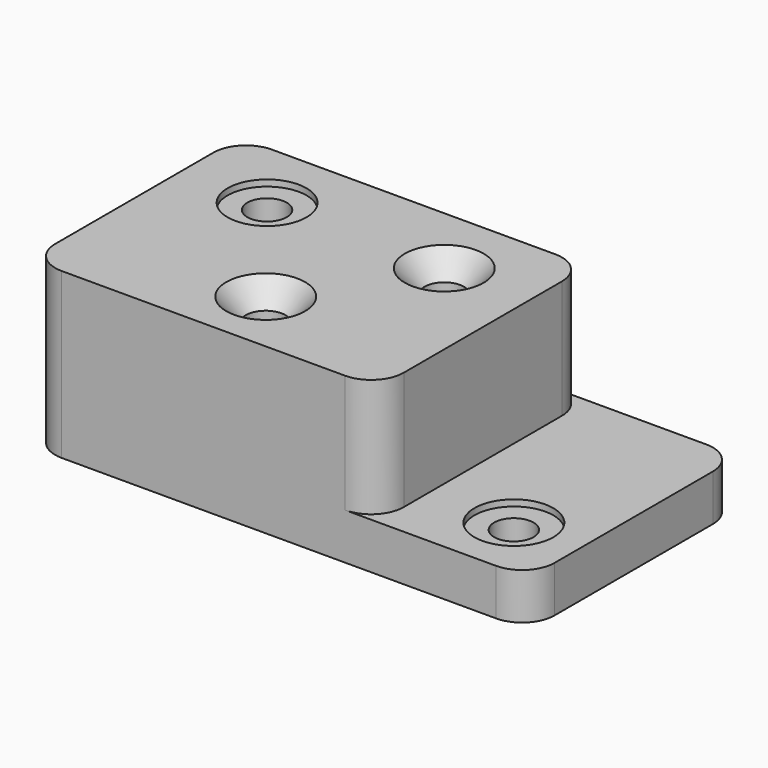
from build123d import *

# Parameters (mm, degrees)
F1_DEPTH       = 127
F2_R           = 15.748
F4_D           = 19.05
F4_CSINK_D     = 38.1
F4_CSINK_ANGLE = 82
F5_D           = 19.05
F5_CBORE_D     = 38.1
F5_CBORE_DEPTH = 3.048
F7_D           = 19.05
F7_CBORE_D     = 38.1
F7_CBORE_DEPTH = 3.048
F8_D           = 19.05
F8_CSINK_D     = 38.1
F8_CSINK_ANGLE = 82


with BuildPart() as f1:
    # F0 (on Front) → F1 (new body)
    with BuildSketch(Plane.XZ):
        Polygon((0, 79.502), (0, 0), (241.3, 0), (241.3, 22.352), (168.402, 22.352), (168.402, 79.502), align=None)
    extrude(amount=F1_DEPTH)

    # F2
    f2_edges = [f1.edges().sort_by_distance(p)[0] for p in [
        (0, -127, 39.751),
        (168.402, -127, 50.927),
        (168.402, 0, 50.927),
        (241.3, 0, 11.176),
        (241.3, -127, 11.176),
        (0, 0, 39.751),
    ]]
    fillet(f2_edges, radius=F2_R)

    # F4 (through all)
    with Locations(Plane.XY.offset(79.502)):
        with Locations((88.9, -95.25)):
            CounterSinkHole(F4_D / 2, F4_CSINK_D / 2, counter_sink_angle=F4_CSINK_ANGLE)

    # F5 (through all)
    with Locations(Plane.XY.offset(79.502)):
        with Locations((41.402, -35.052)):
            CounterBoreHole(F5_D / 2, F5_CBORE_D / 2, F5_CBORE_DEPTH)

    # F7 (through all)
    with Locations(Plane.XY.offset(22.352)):
        with Locations((208.788, -95.25)):
            CounterBoreHole(F7_D / 2, F7_CBORE_D / 2, F7_CBORE_DEPTH)

    # F8 (through all)
    with Locations(Plane.XY.offset(79.502)):
        with Locations((127, -35.052)):
            CounterSinkHole(F8_D / 2, F8_CSINK_D / 2, counter_sink_angle=F8_CSINK_ANGLE)


solid = f1.part
